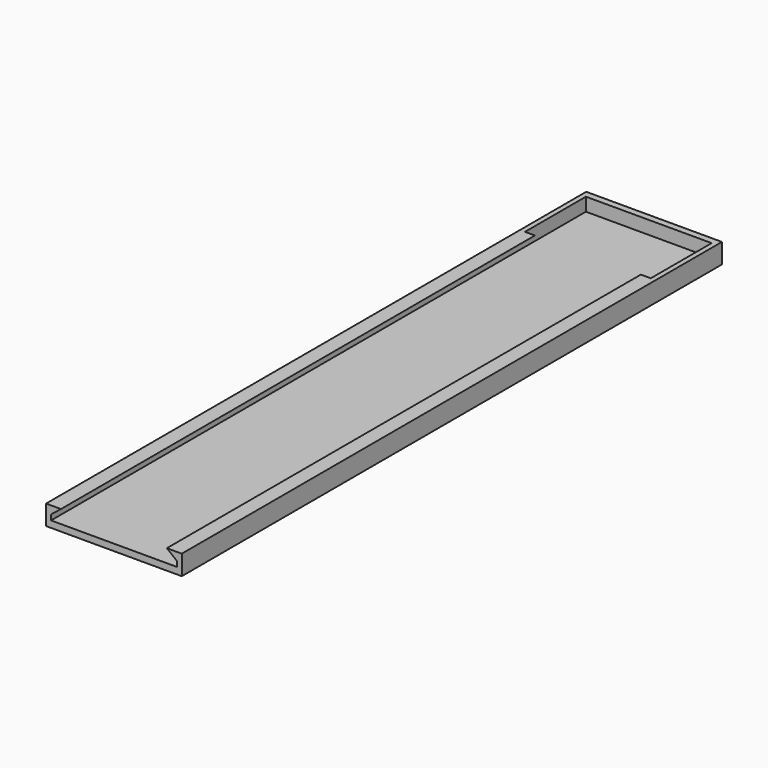
from build123d import *

# Parameters (mm, degrees)
F1_DEPTH = 202
F2_W     = 41
F2_H     = 6
F3_DEPTH = 2
F5_W     = 38
F5_H     = 23
F6_DEPTH = 4


with BuildPart() as f1:
    # F0 (on Front) → F1 (new body)
    with BuildSketch(Plane.XZ):
        Polygon((-20.5, 6), (-20.5, 0), (20.5, 0), (20.5, 6), (16, 6), (19, 3.6), (19, 2), (-19, 2), (-19, 3.6), (-16, 6), align=None)
    extrude(amount=F1_DEPTH)

    # F2 (on Front) → F3 (join)
    with BuildSketch(Plane.XZ):
        with Locations((0, 3)):
            Rectangle(F2_W, F2_H)
    extrude(amount=-F3_DEPTH)

    # F5 (on offset) → F6 (cut)
    with BuildSketch(Plane.XY.offset(6)):
        with Locations((0, -11.5)):
            Rectangle(F5_W, F5_H)
    extrude(amount=-F6_DEPTH, mode=Mode.SUBTRACT)


solid = f1.part
